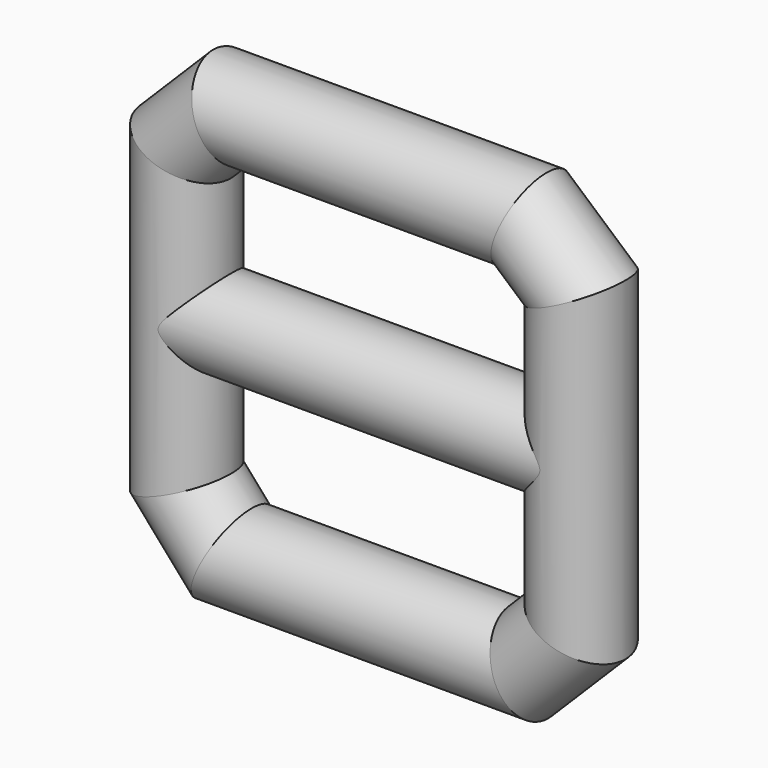
from build123d import *

# Parameters (mm, degrees)
F0_R = 3.9072224072
F3_R = 3.865929534


with BuildPart() as f2:
    # F2: sweep along a path in F1
    with BuildLine(Plane.XZ) as f2_path:
        Line((0, 12.8889391199), (0, 0))
        Line((0, 0), (0, -13.1722129881))
        Line((0, -13.1722129881), (3.9658276364, -17.7045855671))
        Line((3.9658276364, -17.7045855671), (30.3102508187, -17.7045855671))
        Line((30.3102508187, -17.7045855671), (34.8426215351, -13.1722129881))
        Line((34.8426215351, -13.1722129881), (34.8426215351, 0))
        Line((34.8426215351, 0), (34.8426215351, 12.8889391199))
        Line((34.8426215351, 12.8889391199), (30.3102508187, 16.8547667563))
        Line((30.3102508187, 16.8547667563), (3.9658276364, 16.8547667563))
        Line((3.9658276364, 16.8547667563), (0, 12.8889391199))
    # F0 (on Top) → F2 (sweep)
    with BuildSketch(Plane.XY):
        Circle(F0_R)
    sweep(path=f2_path.line, transition=Transition.RIGHT)

    # F5: sweep along a path in F4
    with BuildLine(Plane.XZ) as f5_path:
        Line((0, 0), (35.1259000599, 0))
    # F3 (on Right) → F5 (sweep)
    with BuildSketch(Plane.YZ):
        Circle(F3_R)
    sweep(path=f5_path.line)


solid = f2.part
